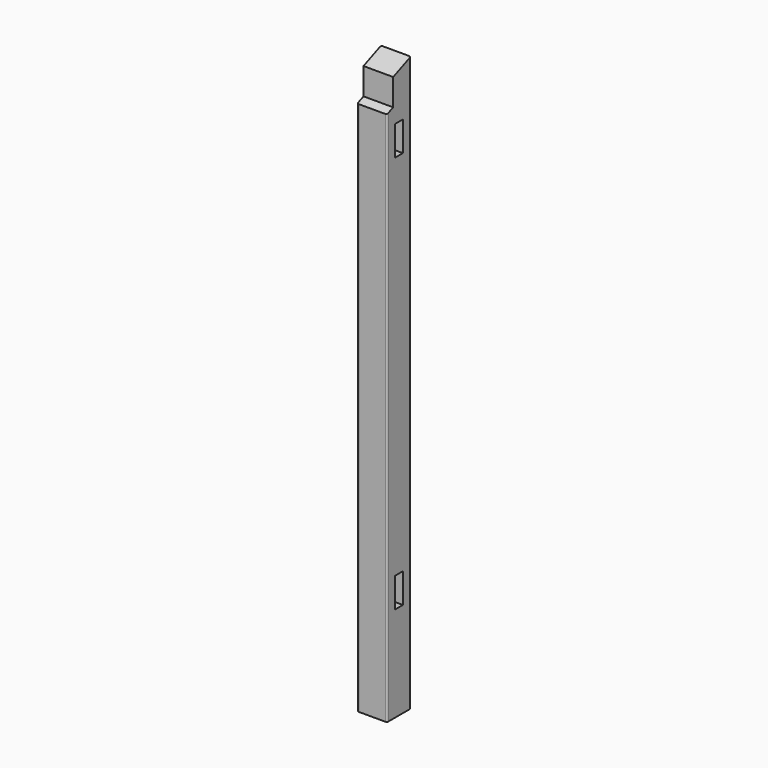
from build123d import *

# Parameters (mm, degrees)
F0_W      = 88
F0_H      = 88
F1_DEPTH  = 1700
F3_DEPTH  = 31
F5_DEPTH  = 31
F7_DEPTH  = 88.001
F9_DEPTH  = 88.001
F11_DEPTH = 31
F13_DEPTH = 31
F14_R     = 5


with BuildPart() as f1:
    # F0 (on Top) → F1 (new body)
    with BuildSketch(Plane.XY):
        with Locations((44, 44)):
            Rectangle(F0_W, F0_H)
    extrude(amount=F1_DEPTH)

    # F2 (on face) → F3 (cut)
    with BuildSketch(Plane.YZ.offset(88)):
        Polygon((29, 282), (44, 282), (59, 282), (59, 370), (29, 370), align=None)
    extrude(amount=-F3_DEPTH, mode=Mode.SUBTRACT)

    # F4 (on face) → F5 (cut)
    with BuildSketch(Plane.YZ.offset(88)):
        Polygon((29, 1460), (44, 1460), (59, 1460), (59, 1548), (29, 1548), align=None)
    extrude(amount=-F5_DEPTH, mode=Mode.SUBTRACT)

    # F6 (on face) → F7 (cut, through all)
    with BuildSketch(Plane.YZ.offset(88)):
        Polygon((0, 1663.5492065112), (88, 1700), (0, 1700), align=None)
    extrude(amount=-F7_DEPTH, mode=Mode.SUBTRACT)

    # F8 (on face) → F9 (cut, through all)
    with BuildSketch(Plane.YZ.offset(88)):
        Polygon((23, 1594.0761184457), (23, 1673.0761184457), (0, 1663.5492065112), (0, 1584.5492065112), align=None)
    extrude(amount=-F9_DEPTH, mode=Mode.SUBTRACT)

    # F10 (on face) → F11 (cut)
    with BuildSketch(Plane(origin=(0, 88, 0), x_dir=(-1, 0, 0), z_dir=(0, 1, 0))):
        Polygon((-59, 162), (-44, 162), (-29, 162), (-29, 250), (-59, 250), align=None)
    extrude(amount=-F11_DEPTH, mode=Mode.SUBTRACT)

    # F12 (on face) → F13 (cut)
    with BuildSketch(Plane(origin=(0, 88, 0), x_dir=(-1, 0, 0), z_dir=(0, 1, 0))):
        Polygon((-59, 1056), (-44, 1056), (-29, 1056), (-29, 1144), (-59, 1144), align=None)
    extrude(amount=-F13_DEPTH, mode=Mode.SUBTRACT)

    # F14
    f14_edges = [f1.edges().sort_by_distance(p)[0] for p in [
        (88, 0, 792.274603),
        (0, 0, 792.274603),
        (88, 88, 850),
        (0, 88, 850),
    ]]
    fillet(f14_edges, radius=F14_R)


solid = f1.part
